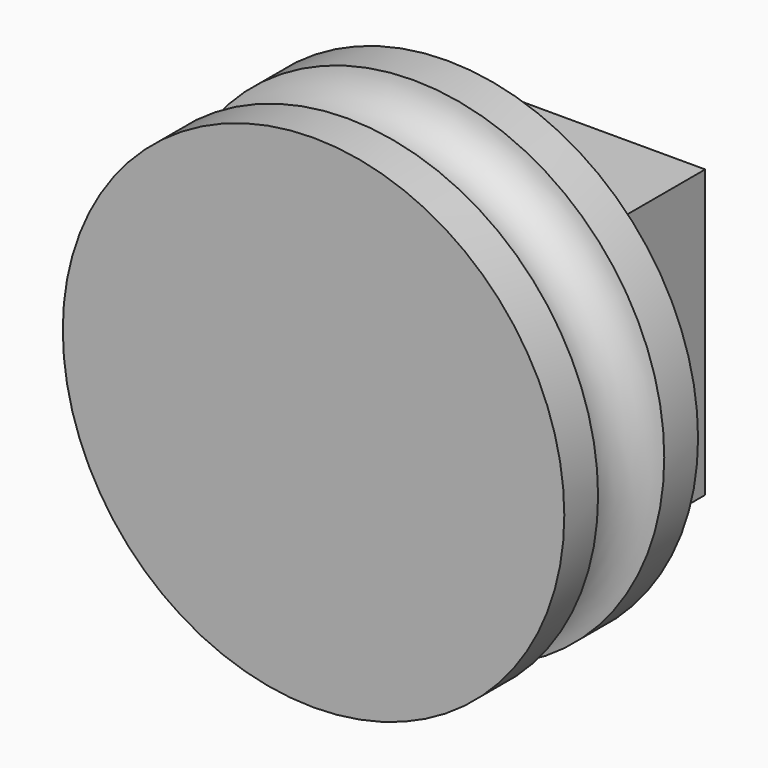
from build123d import *

# Parameters (mm, degrees)
CYLINDER019_R     = 10.5
CYLINDER019_DEPTH = 7
BOX016_W          = 12
BOX016_H          = 12
BOX016_DEPTH      = 6
BOX017_W          = 10
BOX017_H          = 9.5
BOX017_DEPTH      = 11.5
CYLINDER020_R     = 2
CYLINDER020_DEPTH = 12
TORUS_R           = 1.75


with BuildPart() as part:
    # Cylinder019 → Cylinder019 (join)
    with BuildSketch(Plane.XZ):
        Circle(CYLINDER019_R)
    extrude(amount=CYLINDER019_DEPTH)

    # Box016 → Box016 (join)
    with BuildSketch(Plane(origin=(-6, 0, 6), x_dir=(1, 0, 0), z_dir=(0, 1, 0))):
        with Locations((6, 6)):
            Rectangle(BOX016_W, BOX016_H)
    extrude(amount=BOX016_DEPTH)

    # Box017 → Box017 (cut)
    with BuildSketch(Plane(origin=(-5, 6, -4.75), x_dir=(1, 0, 0), z_dir=(0, -1, 0))):
        with Locations((5, 4.75)):
            Rectangle(BOX017_W, BOX017_H)
    extrude(amount=BOX017_DEPTH, mode=Mode.SUBTRACT)

    # Cylinder020 → Cylinder020 (cut)
    with BuildSketch(Plane(origin=(0, 3, 6), x_dir=(1, 0, 0), z_dir=(0, 0, -1))):
        Circle(CYLINDER020_R)
    extrude(amount=CYLINDER020_DEPTH, mode=Mode.SUBTRACT)

    # Torus → Torus (revolve, cut)
    with BuildSketch(Plane(origin=(0, -3.5, 0), x_dir=(1, 0, 0), z_dir=(0, 0, -1))):
        with Locations((10.75, 0)):
            Circle(TORUS_R)
    revolve(axis=Axis((0, -3.5, 0), (0, -1, 0)), mode=Mode.SUBTRACT)


with BuildPart() as part_1:
    # Body004 placement: moved
    add(part.part.moved(Location((0, -48, 0))))


solid = part_1.part
